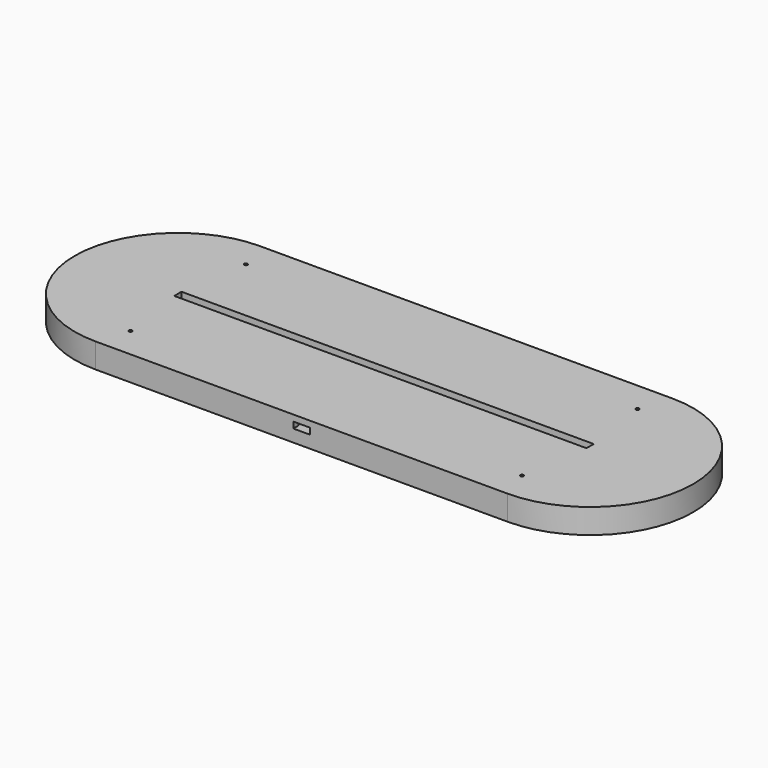
from build123d import *

# Parameters (mm, degrees)
PAD_DEPTH       = 3
PAD001_DEPTH    = 3
SKETCH002_W     = 209.08447
SKETCH002_H     = 4.18
PAD002_DEPTH    = 3
SKETCH003_W     = 26.3
SKETCH003_H     = 34.2
POCKET_DEPTH    = 3
SKETCH004_W     = 18
SKETCH004_H     = 25
POCKET001_DEPTH = 3
SKETCH005_W     = 14
SKETCH005_H     = 5
POCKET002_DEPTH = 6
SKETCH006_W     = 14
SKETCH006_H     = 3
POCKET003_DEPTH = 3
SKETCH007_W     = 8
SKETCH007_H     = 3
POCKET004_DEPTH = 3
SKETCH008_W     = 200
SKETCH008_H     = 4.4
PAD003_DEPTH    = 3
SKETCH009_R     = 0.8
POCKET005_DEPTH = 644.911736


with BuildPart() as part:
    # Sketch → Pad (new body)
    with BuildSketch(Plane.XY):
        with BuildLine():
            ThreePointArc((-100, 50), (-150, 0), (-100, -50))
            Line((-100, -50), (100, -50))
            ThreePointArc((100, -50), (150, 0), (100, 50))
            Line((-100, 50), (100, 50))
        make_face()
    extrude(amount=PAD_DEPTH)

    # Sketch001 (on Face6 of Pad) → Pad001 (join)
    with BuildSketch(Plane.XY.offset(3)):
        with BuildLine():
            ThreePointArc((-100, 50), (-150, 0), (-100, -50))
            Line((-100, -50), (100, -50))
            ThreePointArc((100, -50), (150, 0), (100, 50))
            Line((-100, 50), (100, 50))
        make_face()
        with BuildLine():
            ThreePointArc((-100, 5), (-105, 0), (-100, -5))
            Line((-100, -5), (100, -5))
            ThreePointArc((100, -5), (105, 0), (100, 5))
            Line((-100, 5), (100, 5))
        make_face(mode=Mode.SUBTRACT)
    extrude(amount=PAD001_DEPTH)

    # Sketch002 (on Face9 of Pad001) → Pad002 (join)
    with BuildSketch(Plane.XY.offset(6)):
        with BuildLine():
            ThreePointArc((-100, 50), (-150, 0), (-100, -50))
            Line((-100, -50), (100, -50))
            ThreePointArc((100, -50), (150, 0), (100, 50))
            Line((-100, 50), (100, 50))
        make_face()
        Rectangle(SKETCH002_W, SKETCH002_H, mode=Mode.SUBTRACT)
    extrude(amount=PAD002_DEPTH)

    # Sketch003 (on Face13 of Pad002) → Pocket (cut)
    with BuildSketch(Plane.XY.offset(9)):
        with Locations((0, -29.9)):
            Rectangle(SKETCH003_W, SKETCH003_H)
    extrude(amount=-POCKET_DEPTH, mode=Mode.SUBTRACT)

    # Sketch004 (on Face27 of Pocket) → Pocket001 (cut)
    with BuildSketch(Plane.XY.offset(6)):
        with Locations((0, -25.3)):
            Rectangle(SKETCH004_W, SKETCH004_H)
    extrude(amount=-POCKET001_DEPTH, mode=Mode.SUBTRACT)

    # Sketch005 (on Face13 of Pocket001) → Pocket002 (cut)
    with BuildSketch(Plane.XY.offset(9)):
        with Locations((0, -10.3)):
            Rectangle(SKETCH005_W, SKETCH005_H)
    extrude(amount=-POCKET002_DEPTH, mode=Mode.SUBTRACT)

    # Sketch006 (on Face23 of Pocket002) → Pocket003 (cut)
    with BuildSketch(Plane.XZ.offset(7.8)):
        with Locations((0, 4.5)):
            Rectangle(SKETCH006_W, SKETCH006_H)
    extrude(amount=-POCKET003_DEPTH, mode=Mode.SUBTRACT)

    # Sketch007 (on Face13 of Pocket003) → Pocket004 (cut)
    with BuildSketch(Plane.XY.offset(9)):
        with Locations((0, -48.5)):
            Rectangle(SKETCH007_W, SKETCH007_H)
    extrude(amount=-POCKET004_DEPTH, mode=Mode.SUBTRACT)

    # Sketch008 (on Face15 of Pocket004) → Pad003 (join)
    with BuildSketch(Plane.XY.offset(9)):
        with BuildLine():
            ThreePointArc((-100, 50), (-150, 0), (-100, -50))
            Line((-100, -50), (100, -50))
            ThreePointArc((100, -50), (150, 0), (100, 50))
            Line((-100, 50), (100, 50))
        make_face()
        Rectangle(SKETCH008_W, SKETCH008_H, mode=Mode.SUBTRACT)
    extrude(amount=PAD003_DEPTH)

    # Sketch009 (on Face4 of Pad003) → Pocket005 (cut, through all)
    with BuildSketch(Plane(origin=(0, 0, 0), x_dir=(1, 0, 0), z_dir=(0, 0, -1))):
        with Locations((-95, 35)):
            Circle(SKETCH009_R)
        with Locations((-95, -35)):
            Circle(SKETCH009_R)
    pocket005 = extrude(amount=-POCKET005_DEPTH, mode=Mode.SUBTRACT)

    # Mirrored: Pocket005 across Sketch009 V_Axis
    add(pocket005.mirror(Plane(origin=(0, 0, 0), x_dir=(0, 0, -1), z_dir=(1, 0, 0))), mode=Mode.SUBTRACT)


solid = part.part
